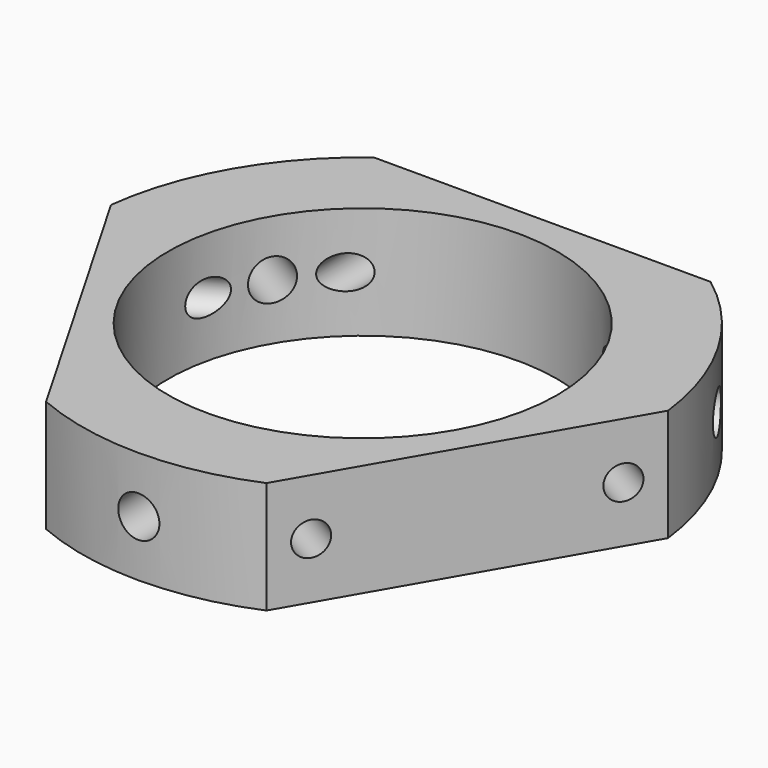
from build123d import *

# Parameters (mm, degrees)
SKETCH_R              = 26
PAD_DEPTH             = 15
SKETCH001_R           = 2.25
POCKET_DEPTH          = 16
POLARPATTERN_COUNT    = 3
SKETCH002_R           = 2.75
POCKET001_DEPTH       = 15
POLARPATTERN001_COUNT = 3


with BuildPart() as part:
    # Sketch → Pad (new body)
    with BuildSketch(Plane.XY):
        with BuildLine():
            Line((-22.5, 30), (22.5, 30))
            ThreePointArc((37.2307621135, 4.4855715852), (32.4759535891, 18.7500005468), (22.5, 30))
            Line((37.2307621135, 4.4855715852), (14.7307621135, -34.4855715852))
            ThreePointArc((-14.7307621135, -34.4855715852), (0, -37.5000010954), (14.7307621135, -34.4855715852))
            Line((-14.7307621135, -34.4855715852), (-37.2307621135, 4.4855715851))
            ThreePointArc((-22.5, 30), (-32.475953589, 18.7500005468), (-37.2307621135, 4.4855715852))
        make_face()
        Circle(SKETCH_R, mode=Mode.SUBTRACT)
    extrude(amount=PAD_DEPTH)

    # Sketch001 (on DatumPlane) → Pocket (cut)
    with BuildSketch(Plane(origin=(25.9807621135, -15, 0), x_dir=(0.5, 0.8660254038, 0), z_dir=(0.8660254038, -0.5, 0))):
        with Locations((-17.5, 7.5)):
            Circle(SKETCH001_R)
        with Locations((17.5, 7.5)):
            Circle(SKETCH001_R)
    pocket = extrude(amount=-POCKET_DEPTH, mode=Mode.SUBTRACT)

    # PolarPattern: Pocket ×3 about axis
    polarpattern_axis = Axis((0, 0, 0), (0, 0, 1))
    for i in range(1, POLARPATTERN_COUNT):
        add(pocket.rotate(polarpattern_axis, i * 360 / POLARPATTERN_COUNT), mode=Mode.SUBTRACT)

    # Sketch002 (on DatumPlane) → Pocket001 (cut, symmetric)
    with BuildSketch(Plane(origin=(-31.6010078868, 18.2448504101, 7.5), x_dir=(0, 0, 1), z_dir=(0.8660254038, -0.5, 0))):
        Circle(SKETCH002_R)
    pocket001 = extrude(amount=POCKET001_DEPTH, both=True, mode=Mode.SUBTRACT)

    # PolarPattern001: Pocket001 ×3 about axis
    polarpattern001_axis = Axis((0, 0, 0), (0, 0, 1))
    for i in range(1, POLARPATTERN001_COUNT):
        add(pocket001.rotate(polarpattern001_axis, i * 360 / POLARPATTERN001_COUNT), mode=Mode.SUBTRACT)


solid = part.part
